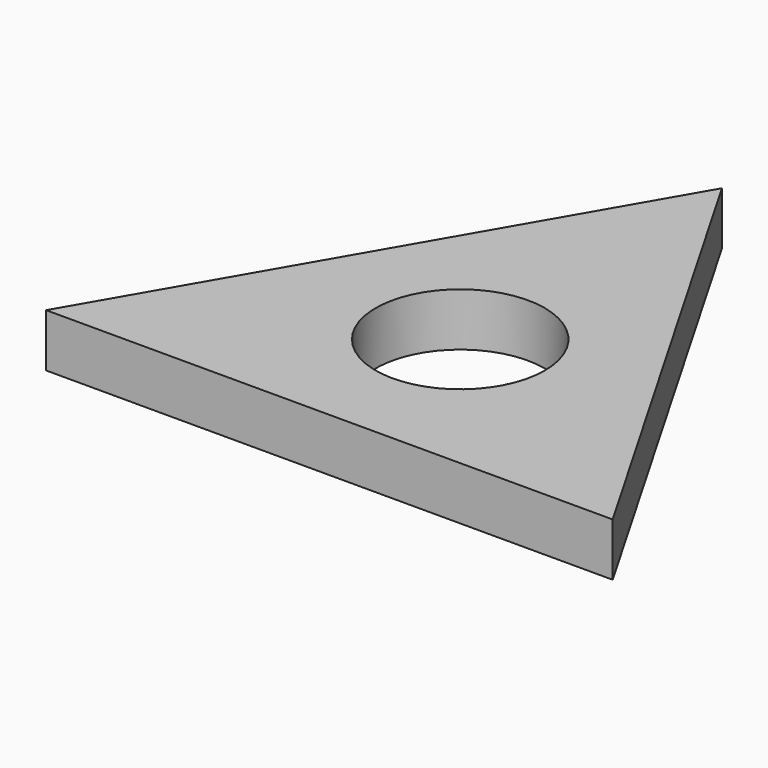
from build123d import *

# Parameters (mm, degrees)
F0_R     = 11.15
F1_DEPTH = 7


with BuildPart() as f1:
    # F0 (on Top) → F1 (new body)
    with BuildSketch(Plane.XY):
        Polygon((-37.353546, -21.56608), (37.353546, -21.56608), (0, 43.13216), align=None)
        Circle(F0_R, mode=Mode.SUBTRACT)
    extrude(amount=F1_DEPTH)


solid = f1.part
